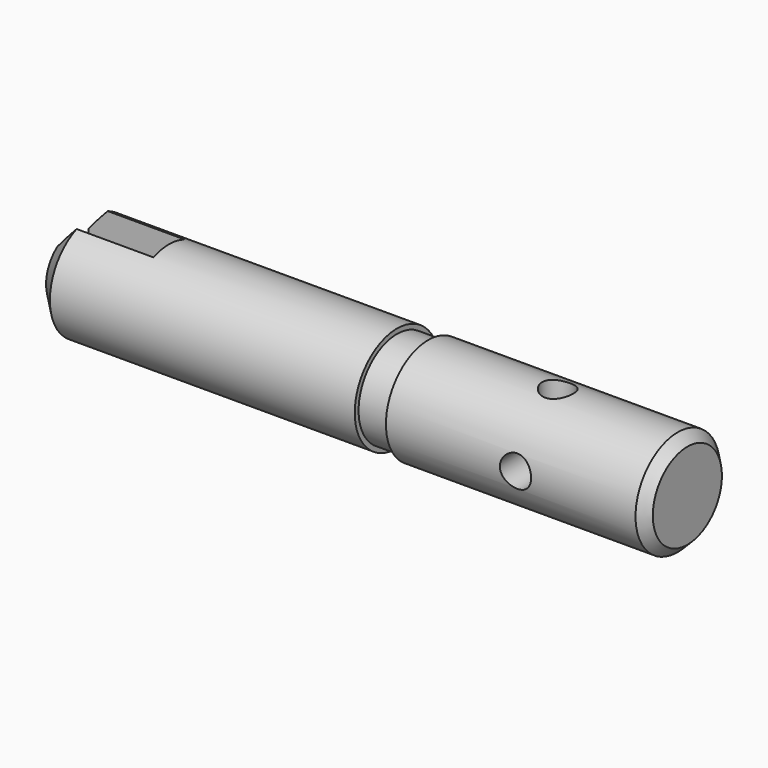
from build123d import *

# Parameters (mm, degrees)
F2_SIZE  = 6.35
F3_SIZE  = 3.175
F4_W     = 33.02
F4_H     = 12.827
F4_R     = 5.1562
F5_DEPTH = 19.05
F6_R     = 5.1562
F7_DEPTH = 19.05


with BuildPart() as f1:
    # F0 (on Top) → F1 (revolve)
    with BuildSketch(Plane.XY):
        Polygon((-203.2, 0), (0, 0), (0, 17.4625), (-85.725, 17.4625), (-85.725, 15.875), (-96.0374, 15.875), (-96.0374, 17.4625), (-203.2, 17.4625), align=None)
    revolve(axis=Axis((-82.347021, 0, 0), (1, 0, 0)))

    # F2
    f2_edges = [f1.edges().sort_by_distance(p)[0] for p in [
        (-203.2, -17.4625, 0),
    ]]
    chamfer(f2_edges, length=F2_SIZE)

    # F3
    f3_edges = [f1.edges().sort_by_distance(p)[0] for p in [
        (0, -17.4625, 0),
    ]]
    chamfer(f3_edges, length=F3_SIZE)

    # F4 (on Top) → F5 (cut, symmetric)
    with BuildSketch(Plane.XY):
        with Locations((-187.96, 0)):
            Rectangle(F4_W, F4_H)
        with Locations((-42.8752, 0)):
            Circle(F4_R)
    extrude(amount=F5_DEPTH, both=True, mode=Mode.SUBTRACT)

    # F6 (on Front) → F7 (cut, symmetric)
    with BuildSketch(Plane.XZ):
        with Locations((-42.8752, 0)):
            Circle(F6_R)
    extrude(amount=F7_DEPTH, both=True, mode=Mode.SUBTRACT)


solid = f1.part
